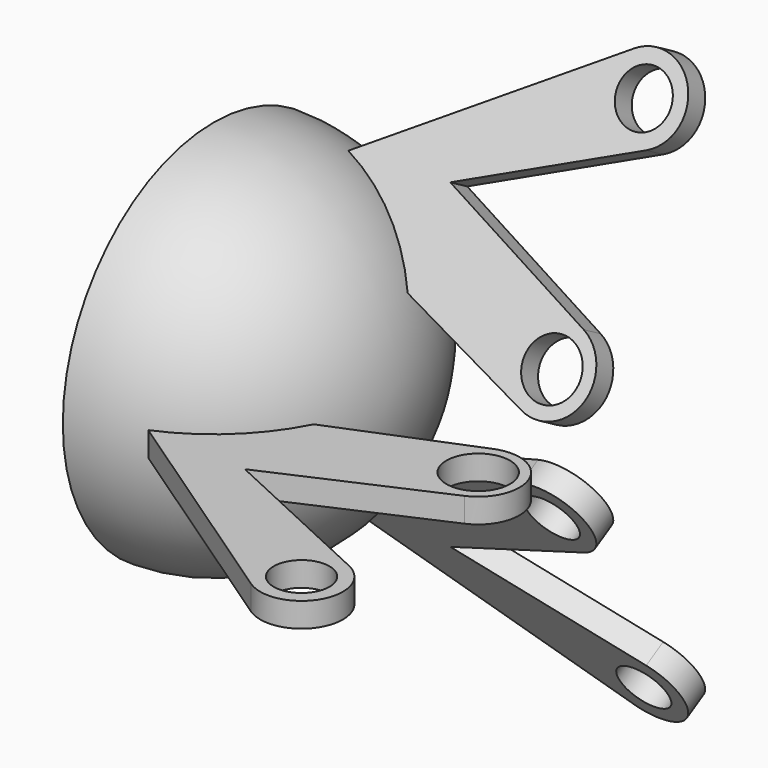
from build123d import *

# Parameters (mm, degrees)
F2_R      = 25.0047709918
F3_DEPTH  = 12.53747
F5_DEPTH  = 1.8812
F6_COUNT  = 3
F7_R      = 4.8937458283
F7_R_2    = 4.2864831503
F10_DEPTH = 25.4
F8_R      = 3.9457010293
F8_R_2    = 4.0181499064
F11_DEPTH = 25.4
F9_R      = 4.3950120505
F9_R_2    = 4.1465190725
F12_DEPTH = 25.4


with BuildPart() as f1:
    # F0 (on Front) → F1 (revolve)
    with BuildSketch(Plane.XZ):
        with BuildLine():
            Line((0, 0), (21.5274985125, 0))
            ThreePointArc((21.5274985125, 0), (15.2222401802, 15.2222401802), (0, 21.5274985125))
            Line((0, 21.5274985125), (0, 0))
        make_face()
        with BuildLine():
            Line((21.5274985125, 0), (29.0186140935, 0))
            ThreePointArc((29.0186140935, 0), (20.5192588061, 20.5192588061), (0, 29.0186140935))
            Line((0, 29.0186140935), (0, 21.5274985125))
            ThreePointArc((0, 21.5274985125), (15.2222401802, 15.2222401802), (21.5274985125, 0))
        make_face()
    revolve(axis=Axis((14.5093070467, 0, 0), (1, 0, 0)))

    # F2 (on face) → F3 (cut)
    with BuildSketch(Plane(origin=(0, 0, 0), x_dir=(0, -1, 0), z_dir=(-1, 0, 0))):
        Circle(F2_R)
    extrude(amount=-F3_DEPTH, mode=Mode.SUBTRACT)


with BuildPart() as f5:
    # F4 (on Top) → F5 (new body, symmetric)
    with BuildSketch(Plane.XY):
        with BuildLine():
            ThreePointArc((25.8794140562, -13.1276765657), (19.7971013422, -21.2168504343), (11.3067008411, -26.725240504))
            Line((11.3067008411, -26.725240504), (45.9044044518, -50.2071444738))
            ThreePointArc((45.9044044518, -50.2071444738), (54.9962204764, -48.0816487231), (52.1410941938, -39.1919296768))
            Line((52.1410941938, -39.1919296768), (26.7212075388, -27.4081242526))
            Line((26.7212075388, -27.4081242526), (51.6747971886, -16.3380185303))
            ThreePointArc((51.6747971886, -16.3380185303), (54.9435116308, -8.0489518068), (46.706185016, -4.6519573277))
            Line((46.706185016, -4.6519573277), (25.8794140562, -13.1276765657))
        make_face()
    extrude(amount=F5_DEPTH, both=True)


with BuildPart() as f6_1:
    # F6: instance of F5
    add(f5.part.rotate(Axis((14.5093070467, 0, 0), (1, 0, 0)), 1 * 360 / F6_COUNT))

    # F8 (on face) → F11 (cut)
    with BuildSketch(Plane(origin=(0, -1.6291669896, -0.9406), x_dir=(1, 0, 0), z_dir=(0, -0.8660254038, -0.5))):
        with Locations((49.4704470038, -44.9530184269)):
            Circle(F8_R)
        with Locations((49.0997768939, -10.5335572734)):
            Circle(F8_R_2)
    extrude(amount=-F11_DEPTH, mode=Mode.SUBTRACT)


with BuildPart() as f6_2:
    # F6: instance of F5
    add(f5.part.rotate(Axis((14.5093070467, 0, 0), (1, 0, 0)), 2 * 360 / F6_COUNT))

    # F9 (on face) → F12 (cut)
    with BuildSketch(Plane(origin=(0, -1.6291669896, 0.9406), x_dir=(1, 0, 0), z_dir=(0, -0.8660254038, 0.5))):
        with Locations((49.0997768939, 10.5335572734)):
            Circle(F9_R)
        with Locations((49.4704470038, 44.9530184269)):
            Circle(F9_R_2)
    extrude(amount=-F12_DEPTH, mode=Mode.SUBTRACT)


with BuildPart() as f5_1:
    add(f5.part)

    # F7 (on face) → F10 (cut)
    with BuildSketch(Plane(origin=(0, 0, -1.8812), x_dir=(1, 0, 0), z_dir=(0, 0, -1))):
        with Locations((49.0997768939, 10.5335572734)):
            Circle(F7_R)
        with Locations((49.4704470038, 44.9530184269)):
            Circle(F7_R_2)
    extrude(amount=-F10_DEPTH, mode=Mode.SUBTRACT)


solid = Compound([f1.part, f6_1.part, f6_2.part, f5_1.part])
